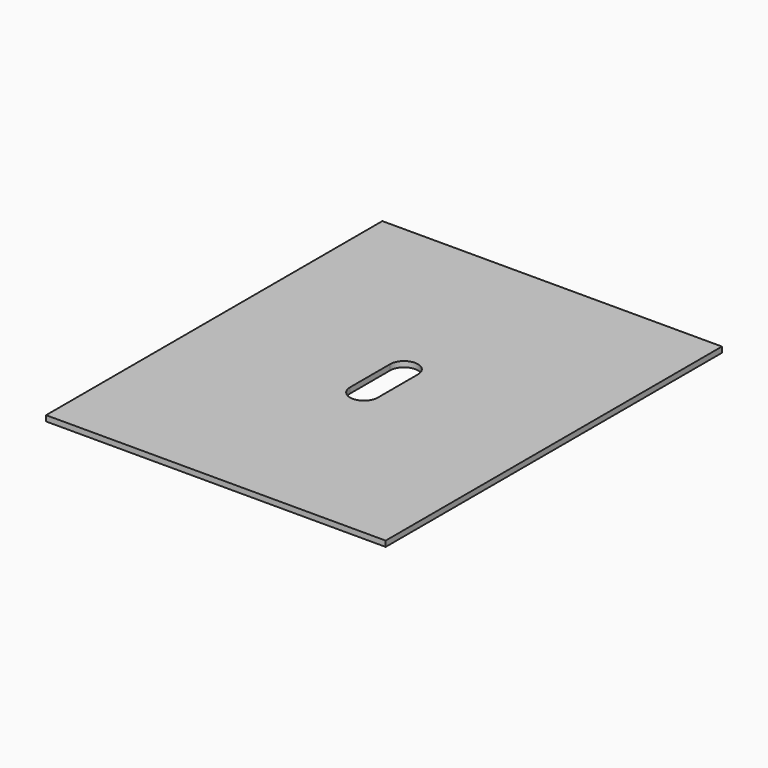
from build123d import *

# Parameters (mm, degrees)
F0_W     = 387.35
F0_H     = 479.425
F1_DEPTH = 6.35


with BuildPart() as f1:
    # F0 (on Top) → F1 (new body)
    with BuildSketch(Plane.XY):
        Rectangle(F0_W, F0_H)
        with BuildLine():
            Line((-15.875, -28.575), (-15.875, 28.575))
            ThreePointArc((-15.875, 28.575), (0, 44.45), (15.875, 28.575))
            Line((15.875, 28.575), (15.875, -28.575))
            ThreePointArc((15.875, -28.575), (0, -44.45), (-15.875, -28.575))
        make_face(mode=Mode.SUBTRACT)
    extrude(amount=F1_DEPTH)


solid = f1.part
